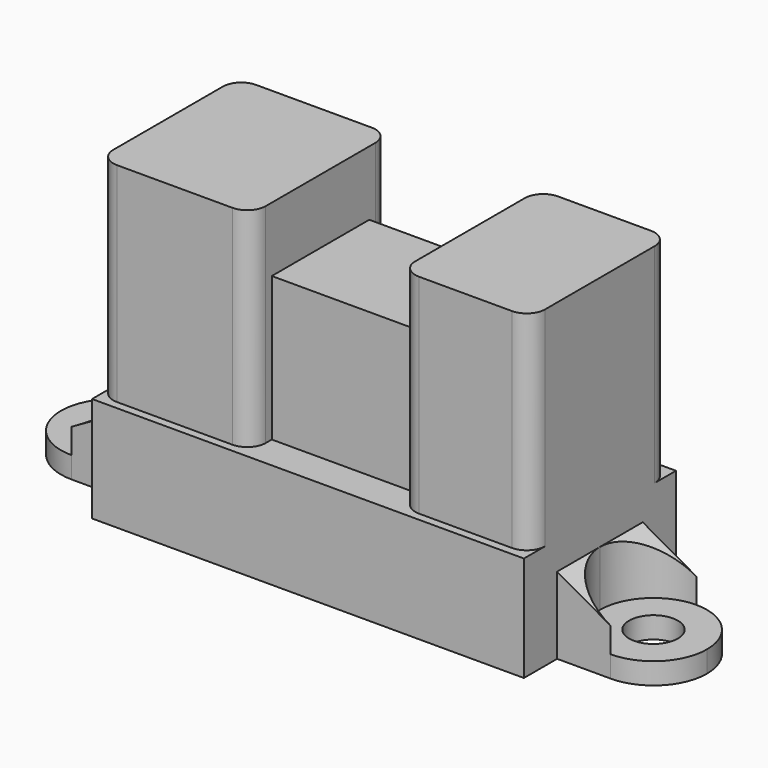
from build123d import *

# Parameters (mm, degrees)
F0_R      = 1.6764
F1_DEPTH  = 1.4732
F3_DEPTH  = 3.81
F5_DEPTH  = 7.366
F7_DEPTH  = 7.239
F9_DEPTH  = 14.351
F10_W     = 10.287
F10_H     = 8.382
F11_DEPTH = 9.906
F12_W     = 10.414
F12_H     = 6.35
F13_DEPTH = 7.62


with BuildPart() as f1:
    # F0 (on Top) → F1 (new body)
    with BuildSketch(Plane.XY):
        Polygon((14.859, 3.683), (14.859, 6.5405), (-14.859, 6.5405), (-14.859, 3.683), (-14.859, 0), (-14.859, -3.683), (-14.859, -6.5405), (14.859, -6.5405), (14.859, -3.683), (14.859, 0), align=None)
        with BuildLine():
            Line((18.542, 3.683), (14.859, 3.683))
            Line((14.859, 3.683), (14.859, 0))
            ThreePointArc((14.859, 0), (15.937726, 2.604274), (18.542, 3.683))
        make_face()
        with BuildLine():
            Line((-14.859, 0), (-14.859, 3.683))
            Line((-14.859, 3.683), (-18.542, 3.683))
            ThreePointArc((-18.542, 3.683), (-15.937726, 2.604274), (-14.859, 0))
        make_face()
        with BuildLine():
            ThreePointArc((18.542, -3.683), (15.937726, -2.604274), (14.859, 0))
            Line((14.859, 0), (14.859, -3.683))
            Line((14.859, -3.683), (18.542, -3.683))
        make_face()
        with BuildLine():
            ThreePointArc((18.542, 3.683), (15.937726, 2.604274), (14.859, 0))
            ThreePointArc((14.859, 0), (15.937726, -2.604274), (18.542, -3.683))
            ThreePointArc((18.542, -3.683), (21.146274, -2.604274), (22.225, 0))
            ThreePointArc((22.225, 0), (21.146274, 2.604274), (18.542, 3.683))
        make_face()
        with Locations((18.542, 0)):
            Circle(F0_R, mode=Mode.SUBTRACT)
        with BuildLine():
            ThreePointArc((-18.542, -3.683), (-15.937726, -2.604274), (-14.859, 0))
            ThreePointArc((-14.859, 0), (-15.937726, 2.604274), (-18.542, 3.683))
            ThreePointArc((-18.542, 3.683), (-22.225, 0), (-18.542, -3.683))
        make_face()
        with Locations((-18.542, 0)):
            Circle(F0_R, mode=Mode.SUBTRACT)
        with BuildLine():
            Line((-14.859, -3.683), (-14.859, 0))
            ThreePointArc((-14.859, 0), (-15.937726, -2.604274), (-18.542, -3.683))
            Line((-18.542, -3.683), (-14.859, -3.683))
        make_face()
    extrude(amount=F1_DEPTH)



with BuildPart() as f3:
    # F2 (on face) → F3 (new body)
    with BuildSketch(Plane.XY.offset(1.4732)):
        with BuildLine():
            Line((-14.859, 3.683), (-18.542, 3.683))
            ThreePointArc((-18.542, 3.683), (-15.937726, 2.604274), (-14.859, 0))
            Line((-14.859, 0), (-14.859, 3.683))
        make_face()
        with BuildLine():
            Line((-14.859, -3.683), (-14.859, 0))
            ThreePointArc((-14.859, 0), (-15.937726, -2.604274), (-18.542, -3.683))
            Line((-18.542, -3.683), (-14.859, -3.683))
        make_face()
        with BuildLine():
            Line((14.859, -3.683), (18.542, -3.683))
            ThreePointArc((18.542, -3.683), (15.937726, -2.604274), (14.859, 0))
            Line((14.859, 0), (14.859, -3.683))
        make_face()
        with BuildLine():
            Line((14.859, 3.683), (14.859, 0))
            ThreePointArc((14.859, 0), (15.937726, 2.604274), (18.542, 3.683))
            Line((18.542, 3.683), (14.859, 3.683))
        make_face()
    extrude(amount=F3_DEPTH)

    # F4 (on face) → F5 (cut, through all)
    with BuildSketch(Plane.XZ.offset(3.683)):
        Polygon((-18.542, 5.2832), (-18.542, 3.2004), (-14.859, 5.2832), align=None)
        Polygon((14.859, 5.2832), (18.542, 3.2004), (18.542, 5.2832), align=None)
    extrude(amount=-F5_DEPTH, mode=Mode.SUBTRACT)


with BuildPart() as f1_1:
    add(f1.part)

    add(f3.part)  # F7 merges F3
    # F6 (on Top) → F7 (join)
    with BuildSketch(Plane.XY):
        Polygon((14.859, 3.683), (14.859, 6.5405), (-14.859, 6.5405), (-14.859, 3.683), (-14.859, 0), (-14.859, -3.683), (-14.859, -6.5405), (14.859, -6.5405), (14.859, -3.683), (14.859, 0), align=None)
    extrude(amount=F7_DEPTH)

    # F8 (on face) → F9 (join)
    with BuildSketch(Plane.XY.offset(7.239)):
        with BuildLine():
            ThreePointArc((-4.3688, 4.7117), (-4.740774, 5.609726), (-5.6388, 5.9817))
            Line((-5.6388, 5.9817), (-13.589, 5.9817))
            ThreePointArc((-13.589, 5.9817), (-14.487026, 5.609726), (-14.859, 4.7117))
            Line((-14.859, 4.7117), (-14.859, -4.7117))
            ThreePointArc((-14.859, -4.7117), (-14.487026, -5.609726), (-13.589, -5.9817))
            Line((-13.589, -5.9817), (-5.6388, -5.9817))
            ThreePointArc((-5.6388, -5.9817), (-4.740774, -5.609726), (-4.3688, -4.7117))
            Line((-4.3688, -4.7117), (-4.3688, 4.7117))
        make_face()
        with BuildLine():
            ThreePointArc((14.859, 4.7117), (14.487026, 5.609726), (13.589, 5.9817))
            Line((13.589, 5.9817), (7.1882, 5.9817))
            ThreePointArc((7.1882, 5.9817), (6.290174, 5.609726), (5.9182, 4.7117))
            Line((5.9182, 4.7117), (5.9182, -4.7117))
            ThreePointArc((5.9182, -4.7117), (6.290174, -5.609726), (7.1882, -5.9817))
            Line((7.1882, -5.9817), (13.589, -5.9817))
            ThreePointArc((13.589, -5.9817), (14.487026, -5.609726), (14.859, -4.7117))
            Line((14.859, -4.7117), (14.859, 4.7117))
        make_face()
    extrude(amount=F9_DEPTH)

    # F10 (on face) → F11 (join)
    with BuildSketch(Plane.XY.offset(7.239)):
        with Locations((0.7747, 0)):
            Rectangle(F10_W, F10_H)
    extrude(amount=F11_DEPTH)

    # F12 (on face) → F13 (join)
    with BuildSketch(Plane(origin=(0, 4.191, 0), x_dir=(-1, 0, 0), z_dir=(0, 1, 0))):
        with Locations((0, 6.35)):
            Rectangle(F12_W, F12_H)
    extrude(amount=F13_DEPTH)


solid = f1_1.part
